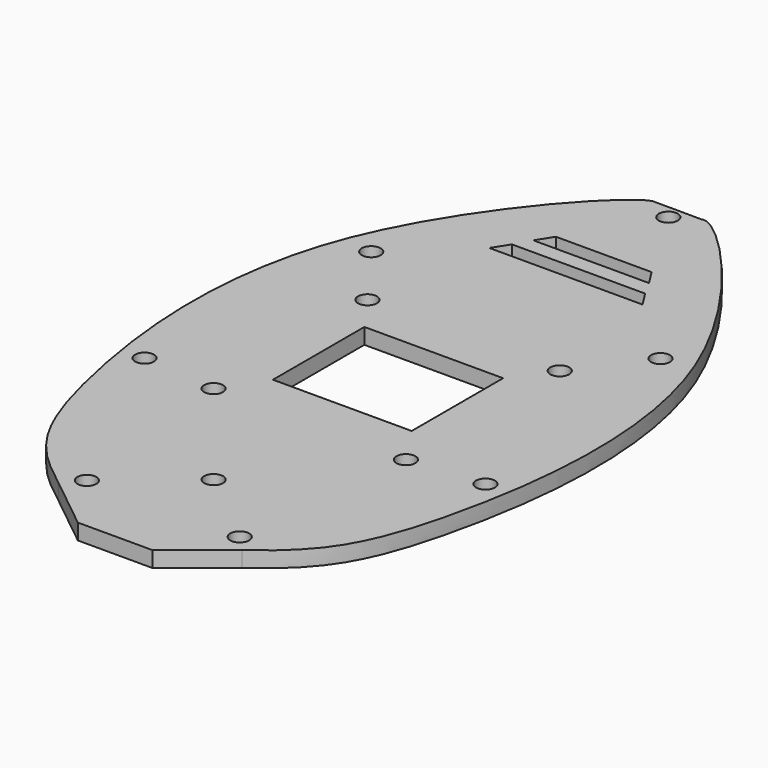
from build123d import *

# Parameters (mm, degrees)
F0_R     = 1.5
F0_W     = 22
F0_H     = 18.1246111169
F1_DEPTH = 2.5


with BuildPart() as f1:
    # F0 (on Top) → F1 (new body)
    with BuildSketch(Plane.XY):
        with BuildLine():
            add(Edge.make_bspline(
                [(-14.5718348775, -29.5509017117), (-17.2814950812, -27.5306828536), (-23.9745169905, -22.1549382721), (-30.595947652, -3.49612126), (-36.3324677675, 43.4216202253), (-7.8084108152, 74.3219266363), (-4.2779348576, 75.2707928206)],
                knots=[0, 0, 0, 0, 0.1530871009, 0.3539795811, 0.6783731467, 0.9671043152, 0.9671043152, 0.9671043152, 0.9671043152], degree=3))
            Line((-14.5718348775, -29.5509017117), (-5.9385337498, -36.4673706747))
            Line((-5.9385337498, -36.4673706747), (0, -36.4673706747))
            Line((0, -36.4673706747), (5.9385337498, -36.4673706747))
            Line((5.9385337498, -36.4673706747), (14.5718348775, -29.5509017117))
            add(Edge.make_bspline(
                [(14.5718348775, -29.5509017117), (17.2814950812, -27.5306828536), (23.9745169905, -22.1549382721), (30.595947652, -3.49612126), (36.3324677675, 43.4216202253), (6.2780233831, 75.9798058314), (3.602, 75.3104364757), (3.7757005832, 75.2630296432)],
                knots=[0, 0, 0, 0, 0.1530871009, 0.3539795811, 0.6783731467, 0.9671043152, 1, 1, 1, 1], degree=3))
            Line((3.7757005832, 75.2630296432), (-3.602, 75.3104364757))
            Line((-3.602, 75.3104364757), (-3.7275652465, 75.3030720599))
            Line((-3.7275652465, 75.3030720599), (-4.2779348576, 75.2707928206))
        make_face()
        with Locations((-12.121, -26.949)):
            Circle(F0_R, mode=Mode.SUBTRACT)
        with Locations((-27.033, 3.127)):
            Circle(F0_R, mode=Mode.SUBTRACT)
        with Locations((-15.25, 2.0827907138)):
            Circle(F0_R, mode=Mode.SUBTRACT)
        with Locations((12.121, -26.949)):
            Circle(F0_R, mode=Mode.SUBTRACT)
        with Locations((0, -16.9673706747)):
            Circle(F0_R, mode=Mode.SUBTRACT)
        with Locations((15.25, 2.0827907138)):
            Circle(F0_R, mode=Mode.SUBTRACT)
        with Locations((0, 17.6004734822)):
            Rectangle(F0_W, F0_H, mode=Mode.SUBTRACT)
        with Locations((27.033, 3.127)):
            Circle(F0_R, mode=Mode.SUBTRACT)
        with Locations((-22.94, 42.94)):
            Circle(F0_R, mode=Mode.SUBTRACT)
        with Locations((-15.25, 32.5827907138)):
            Circle(F0_R, mode=Mode.SUBTRACT)
        with Locations((15.25, 32.5827907138)):
            Circle(F0_R, mode=Mode.SUBTRACT)
        with Locations((22.94, 42.94)):
            Circle(F0_R, mode=Mode.SUBTRACT)
        Polygon((12.1448650993, 52.8680674043), (-12.1448650993, 52.8680674043), (-10.5605165738, 55.3680674043), (10.5605165738, 55.3680674043), align=None, mode=Mode.SUBTRACT)
        Polygon((9.1713646965, 57.8680674043), (-9.1713646965, 57.8680674043), (-7.5870161709, 60.3680674043), (7.5870161709, 60.3680674043), align=None, mode=Mode.SUBTRACT)
        with Locations((0, 73.1626654782)):
            Circle(F0_R, mode=Mode.SUBTRACT)
        with BuildLine():
            add(Edge.make_bspline(
                [(-4.2779348576, 75.2707928206), (-3.9871225949, 75.3489527982), (-3.7634968157, 75.3348170127), (-3.7275652465, 75.3030720599)],
                knots=[0.9671043152, 0.9671043152, 0.9671043152, 0.9671043152, 0.9908876706, 0.9908876706, 0.9908876706, 0.9908876706], degree=3))
            Line((-4.2779348576, 75.2707928206), (-3.7275652465, 75.3030720599))
        make_face()
    extrude(amount=F1_DEPTH)


solid = f1.part
